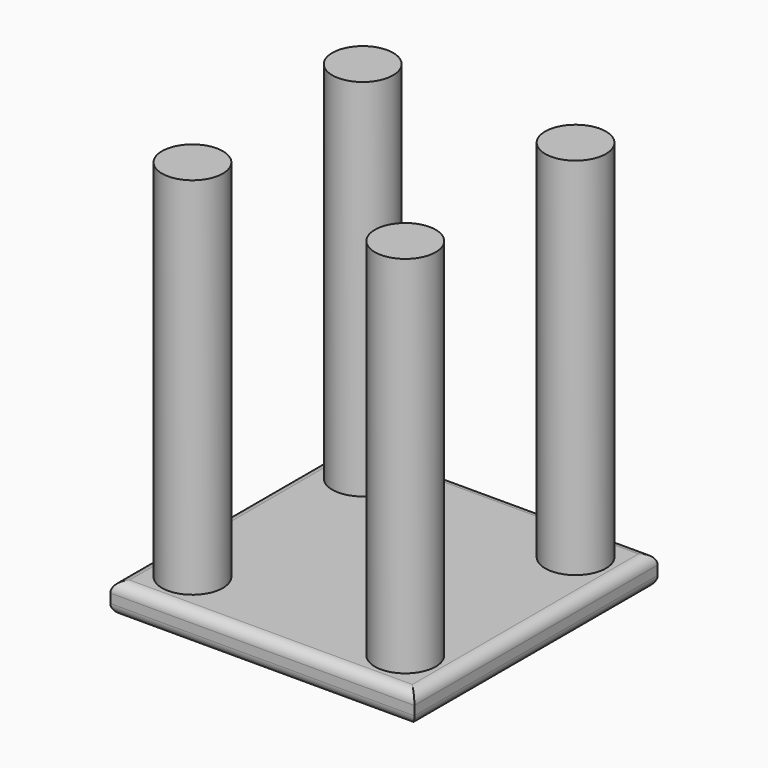
from build123d import *

# Parameters (mm, degrees)
F0_R     = 5.08
F1_DEPTH = 63.5
F0_W     = 50.8
F0_H     = 50.8
F2_DEPTH = 2.54
F3_R     = 1.778


with BuildPart() as f1:
    # F0 (on Top) → F1 (new body)
    with BuildSketch(Plane.XY):
        with Locations((-17.78, 17.78)):
            Circle(F0_R)
        with Locations((17.78, 17.78)):
            Circle(F0_R)
        with Locations((17.78, -17.78)):
            Circle(F0_R)
        with Locations((-17.78, -17.78)):
            Circle(F0_R)
    extrude(amount=F1_DEPTH)


with BuildPart() as f2:
    # F0 (on Top) → F2 (new body, symmetric)
    with BuildSketch(Plane.XY):
        Rectangle(F0_W, F0_H)
        with Locations((-17.78, -17.78)):
            Circle(F0_R, mode=Mode.SUBTRACT)
        with Locations((17.78, -17.78)):
            Circle(F0_R, mode=Mode.SUBTRACT)
        with Locations((-17.78, 17.78)):
            Circle(F0_R, mode=Mode.SUBTRACT)
        with Locations((17.78, 17.78)):
            Circle(F0_R, mode=Mode.SUBTRACT)
    extrude(amount=F2_DEPTH, both=True)

    # F3
    f3_edges = [f2.edges().sort_by_distance(p)[0] for p in [
        (-25.4, 0, -2.54),
        (0, -25.4, -2.54),
        (25.4, 0, -2.54),
        (0, 25.4, -2.54),
        (0, -25.4, 2.54),
        (25.4, 0, 2.54),
        (0, 25.4, 2.54),
        (-25.4, 0, 2.54),
    ]]
    fillet(f3_edges, radius=F3_R)


solid = Compound([f1.part, f2.part])
